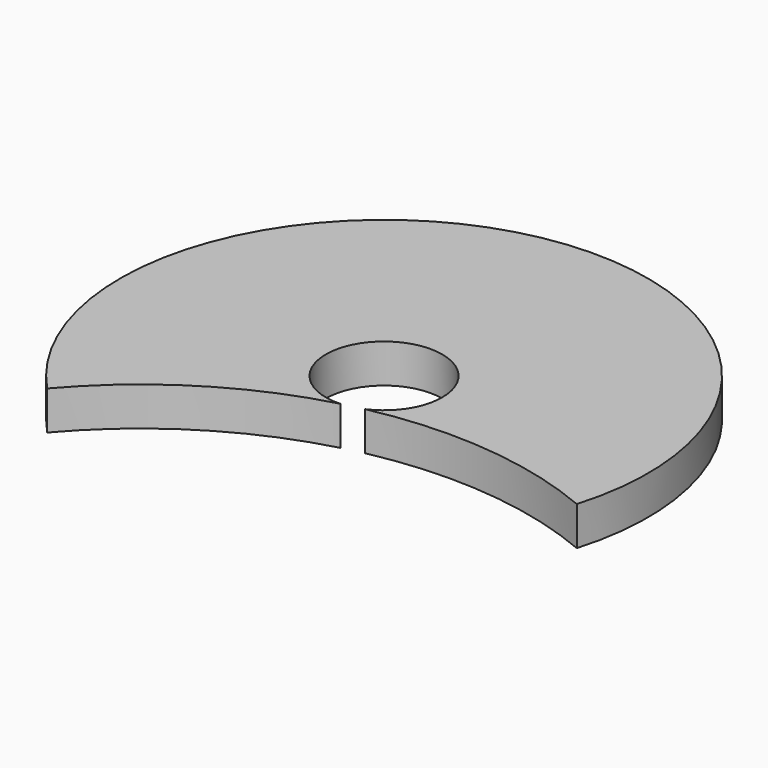
from build123d import *

# Parameters (mm, degrees)
F1_DEPTH = 3.175


with BuildPart() as f1:
    # F0 (on Top) → F1 (new body)
    with BuildSketch(Plane.XY):
        with BuildLine():
            ThreePointArc((1.916308, -4.359951), (11.44144, -3.831691), (20.693533, -6.156767))
            ThreePointArc((20.693533, -6.156767), (-4.989244, 21.005607), (-15.714829, -14.804467))
            ThreePointArc((-15.714829, -14.804467), (-8.49643, -8.567327), (0.248907, -4.755991))
            ThreePointArc((0.248907, -4.755991), (-3.454477, 3.278413), (4.7625, 0))
            ThreePointArc((4.7625, 0), (3.987971, -2.603362), (1.916308, -4.359951))
        make_face()
    extrude(amount=F1_DEPTH)


solid = f1.part
